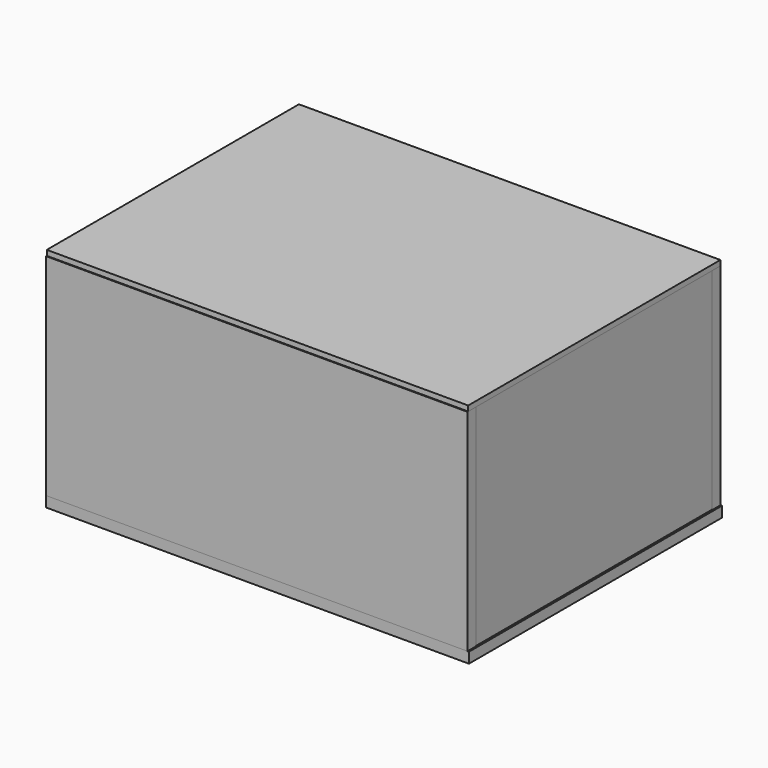
from build123d import *

# Parameters (mm, degrees)
F0_W      = 280
F0_H      = 200
F1_DEPTH  = 10
F2_W      = 390
F2_H      = 200
F2_W_2    = 10
F3_DEPTH  = 10
F5_W      = 280.054449
F5_H      = 199.588737
F6_DEPTH  = 10
F7_W      = 400
F7_H      = 10
F8_DEPTH  = 10
F9_W      = 400
F9_H      = 9.180308
F9_H_2    = 290
F10_DEPTH = 5


with BuildPart() as f1:
    # F0 (on Right) → F1 (new body)
    with BuildSketch(Plane.YZ):
        Rectangle(F0_W, F0_H)
    extrude(amount=F1_DEPTH)


with BuildPart() as f3:
    # F2 (on face) → F3 (new body)
    with BuildSketch(Plane.XZ.offset(140)):
        with Locations((205, 0)):
            Rectangle(F2_W, F2_H)
        with Locations((5, 0)):
            Rectangle(F2_W_2, F2_H)
    extrude(amount=F3_DEPTH)


with BuildPart() as f4_1:
    # F4: instance of F3
    add(f3.part.mirror(Plane.XZ))


with BuildPart() as f6:
    # F5 (on face) → F6 (new body)
    with BuildSketch(Plane.YZ.offset(400)):
        with Locations((0.027225, 0.205632)):
            Rectangle(F5_W, F5_H)
    extrude(amount=-F6_DEPTH)


with BuildPart() as f8:
    # F7 (on face) → F8 (new body)
    with BuildSketch(Plane(origin=(0, 0, -100), x_dir=(1, 0, 0), z_dir=(0, 0, -1))):
        Polygon((401.38334, 150), (400, 150), (400, 140), (0, 140), (0, -150.136411), (401.38334, -150.136411), align=None)
        with Locations((200, 145)):
            Rectangle(F7_W, F7_H)
    extrude(amount=F8_DEPTH)


with BuildPart() as f10:
    # F9 (on face) → F10 (new body)
    with BuildSketch(Plane.XY.offset(100)):
        with Locations((200, -144.590154)):
            Rectangle(F9_W, F9_H)
        with Locations((200, 5)):
            Rectangle(F9_W, F9_H_2)
    extrude(amount=F10_DEPTH)


solid = Compound([f1.part, f3.part, f4_1.part, f6.part, f8.part, f10.part])
